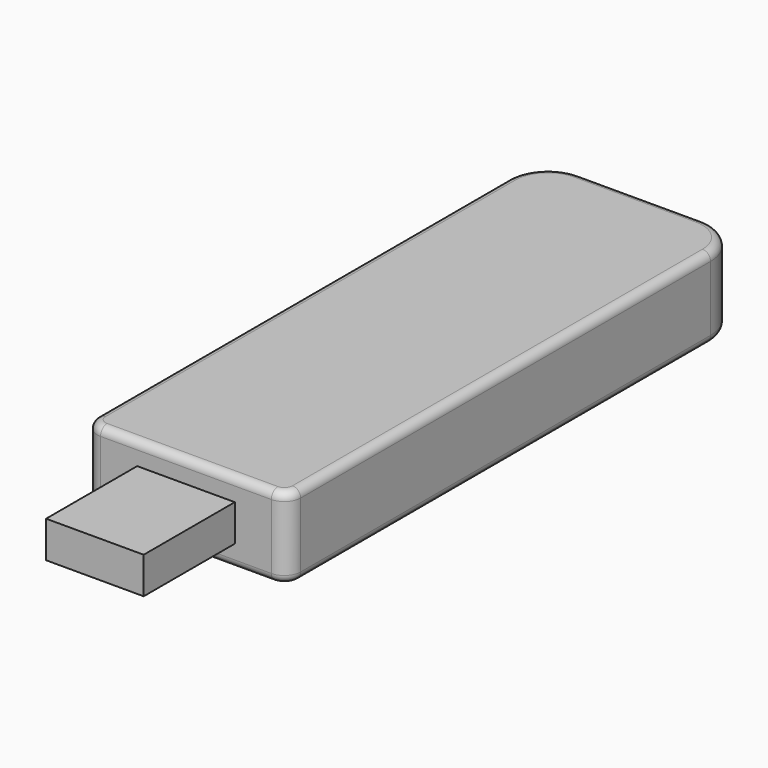
from build123d import *

# Parameters (mm, degrees)
F0_W     = 25
F0_H     = 70
F1_DEPTH = 5
F2_W     = 12
F2_H     = 4.5
F3_DEPTH = 14
F4_R     = 2
F5_R     = 5
F6_R     = 1


with BuildPart() as f1:
    # F0 (on Top) → F1 (new body, symmetric)
    with BuildSketch(Plane.XY):
        Rectangle(F0_W, F0_H)
    extrude(amount=F1_DEPTH, both=True)

    # F2 (on face) → F3 (join)
    with BuildSketch(Plane.XZ.offset(35)):
        Rectangle(F2_W, F2_H)
    extrude(amount=F3_DEPTH)

    # F4
    f4_edges = [f1.edges().sort_by_distance(p)[0] for p in [
        (12.5, -35, 0),
        (-12.5, -35, 0),
    ]]
    fillet(f4_edges, radius=F4_R)

    # F5
    f5_edges = [f1.edges().sort_by_distance(p)[0] for p in [
        (12.5, 35, 0),
        (-12.5, 35, 0),
    ]]
    fillet(f5_edges, radius=F5_R)

    # F6
    f6_edges = [f1.edges().sort_by_distance(p)[0] for p in [
        (-12.5, -1.5, 5),
        (-11.035534, 33.535534, 5),
        (-11.914214, -34.414214, 5),
        (0, 35, 5),
        (0, -35, 5),
        (11.035534, 33.535534, 5),
        (11.914214, -34.414214, 5),
        (12.5, -1.5, 5),
        (-12.5, -1.5, -5),
        (-11.035534, 33.535534, -5),
        (-11.914214, -34.414214, -5),
        (0, 35, -5),
        (0, -35, -5),
        (11.035534, 33.535534, -5),
        (11.914214, -34.414214, -5),
        (12.5, -1.5, -5),
    ]]
    fillet(f6_edges, radius=F6_R)


solid = f1.part
